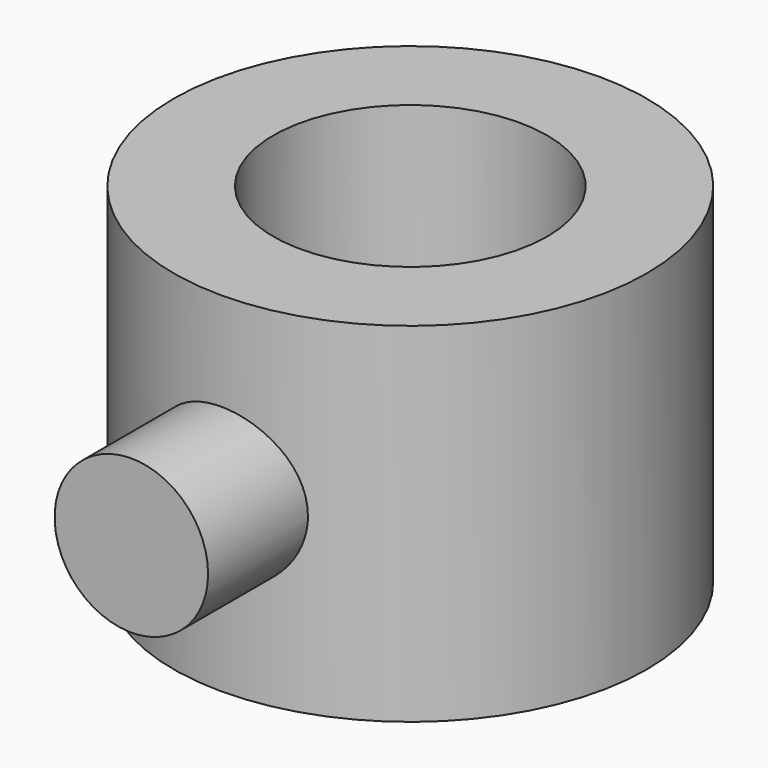
from build123d import *

# Parameters (mm, degrees)
F0_R     = 4.75
F0_R_2   = 2.75
F1_DEPTH = 7
F2_R     = 1.540286
F3_DEPTH = 7


with BuildPart() as f1:
    # F0 (on Top) → F1 (new body)
    with BuildSketch(Plane.XY):
        Circle(F0_R)
        Circle(F0_R_2, mode=Mode.SUBTRACT)
    extrude(amount=F1_DEPTH)

    # F2 (on Front) → F3 (join)
    with BuildSketch(Plane.XZ):
        with Locations((0, 3.492086)):
            Circle(F2_R)
    extrude(amount=F3_DEPTH)


solid = f1.part
